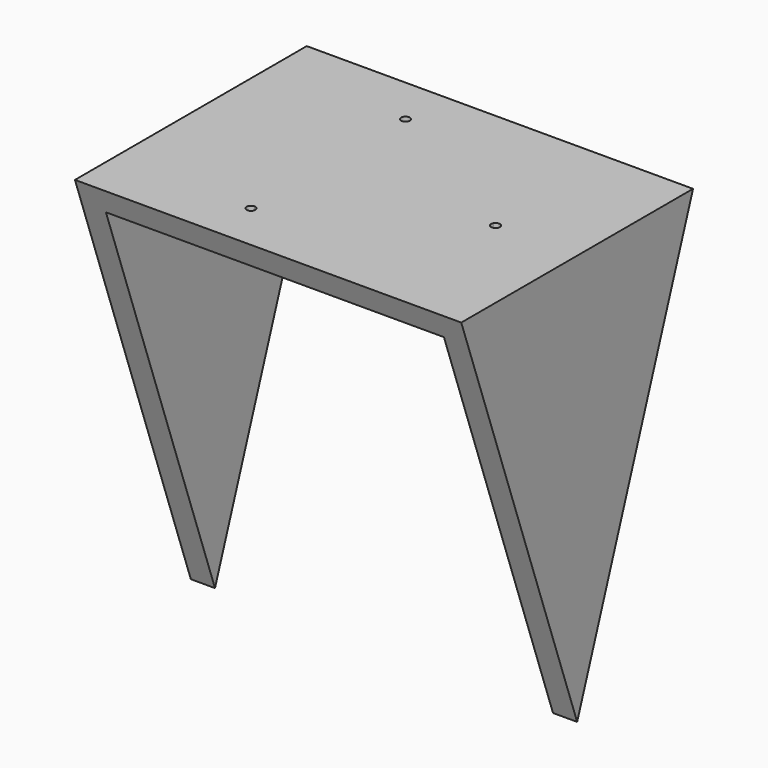
from build123d import *

# Parameters (mm, degrees)
F0_W     = 5
F0_H     = 80
F0_H_2   = 5
F0_W_2   = 70
F1_DEPTH = 60
F3_DEPTH = 85.001
F5_DEPTH = 80.001


with BuildPart() as f1:
    # F0 (on Front) → F1 (new body)
    with BuildSketch(Plane.XZ):
        with Locations((-37.5, -2.5)):
            Rectangle(F0_W, F0_H)
        with Locations((-37.5, 40)):
            Rectangle(F0_W, F0_H_2)
        with Locations((0, 40)):
            Rectangle(F0_W_2, F0_H_2)
        with Locations((37.5, 40)):
            Rectangle(F0_W, F0_H_2)
        with Locations((37.5, -2.5)):
            Rectangle(F0_W, F0_H)
    extrude(amount=F1_DEPTH)

    # F2 (on face) → F3 (cut, through all)
    with BuildSketch(Plane.XY.offset(42.5)):
        with BuildLine():
            Line((22.3145879042, -29.55), (23.0940107676, -30))
            Line((23.0940107676, -30), (22.3145879042, -30.45))
            ThreePointArc((22.3145879042, -30.45), (23.3269479082, -30.8693332437), (23.9940107676, -30))
            ThreePointArc((23.9940107676, -30), (23.3269479082, -29.1306667563), (22.3145879042, -29.55))
        make_face()
        with BuildLine():
            Line((22.3145879042, -30.45), (23.0940107676, -30))
            Line((23.0940107676, -30), (22.3145879042, -29.55))
            ThreePointArc((22.3145879042, -29.55), (22.1940107676, -30), (22.3145879042, -30.45))
        make_face()
        with BuildLine():
            ThreePointArc((-11.5470053838, -10.9), (-11.0970053838, -10.7794228634), (-10.7675825204, -10.45))
            Line((-10.7675825204, -10.45), (-11.5470053838, -10))
            Line((-11.5470053838, -10), (-11.5470053838, -10.9))
        make_face()
        with BuildLine():
            Line((-11.5470053838, -10), (-10.7675825204, -10.45))
            ThreePointArc((-10.7675825204, -10.45), (-10.6776721401, -10.2329371406), (-10.6470053838, -10))
            ThreePointArc((-10.6470053838, -10), (-12.1834014869, -9.3636038969), (-11.5470053838, -10.9))
            Line((-11.5470053838, -10.9), (-11.5470053838, -10))
        make_face()
        with BuildLine():
            Line((-11.5470053838, -50), (-10.7675825204, -49.55))
            ThreePointArc((-10.7675825204, -49.55), (-11.0970053838, -49.2205771366), (-11.5470053838, -49.1))
            Line((-11.5470053838, -49.1), (-11.5470053838, -50))
        make_face()
        with BuildLine():
            ThreePointArc((-10.6470053838, -50), (-10.6776721401, -49.7670628594), (-10.7675825204, -49.55))
            Line((-10.7675825204, -49.55), (-11.5470053838, -50))
            Line((-11.5470053838, -50), (-11.5470053838, -49.1))
            ThreePointArc((-11.5470053838, -49.1), (-12.1834014869, -50.6363961031), (-10.6470053838, -50))
        make_face()
    extrude(amount=-F3_DEPTH, mode=Mode.SUBTRACT)

    # F4 (on face) → F5 (cut, through all)
    with BuildSketch(Plane.YZ.offset(40)):
        Polygon((-60, -42.5), (-30, -42.5), (-60, 42.5), align=None)
        Polygon((0, 42.5), (-30, -42.5), (0, -42.5), align=None)
    extrude(amount=-F5_DEPTH, mode=Mode.SUBTRACT)


solid = f1.part
